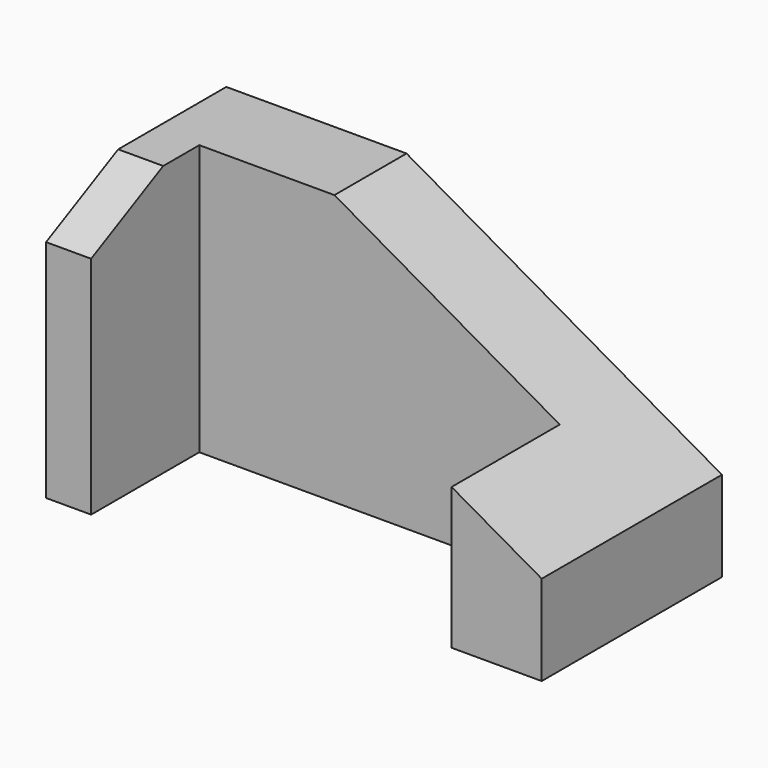
from build123d import *

# Parameters (mm, degrees)
F1_DEPTH = 60
F2_SIZE2 = 10
F2_SIZE  = 20
F3_SIZE2 = 70
F3_SIZE  = 40


with BuildPart() as f1:
    # F0 (on Top) → F1 (new body)
    with BuildSketch(Plane.XY):
        Polygon((0, 50), (0, 0), (10, 0), (10, 30), (90, 30), (90, 0), (110, 0), (110, 50), align=None)
    extrude(amount=F1_DEPTH)

    # F2
    f2_edges = [f1.edges().sort_by_distance(p)[0] for p in [
        (5, 0, 60),
    ]]
    f2_side = f1.faces().sort_by_distance((58.870968, 32.741935, 60))[0]
    chamfer(f2_edges, length=F2_SIZE, length2=F2_SIZE2, reference=f2_side)

    # F3
    f3_edges = [f1.edges().sort_by_distance(p)[0] for p in [
        (110, 25, 60),
    ]]
    f3_side = f1.faces().sort_by_distance((110, 25, 30))[0]
    chamfer(f3_edges, length=F3_SIZE, length2=F3_SIZE2, reference=f3_side)


solid = f1.part
